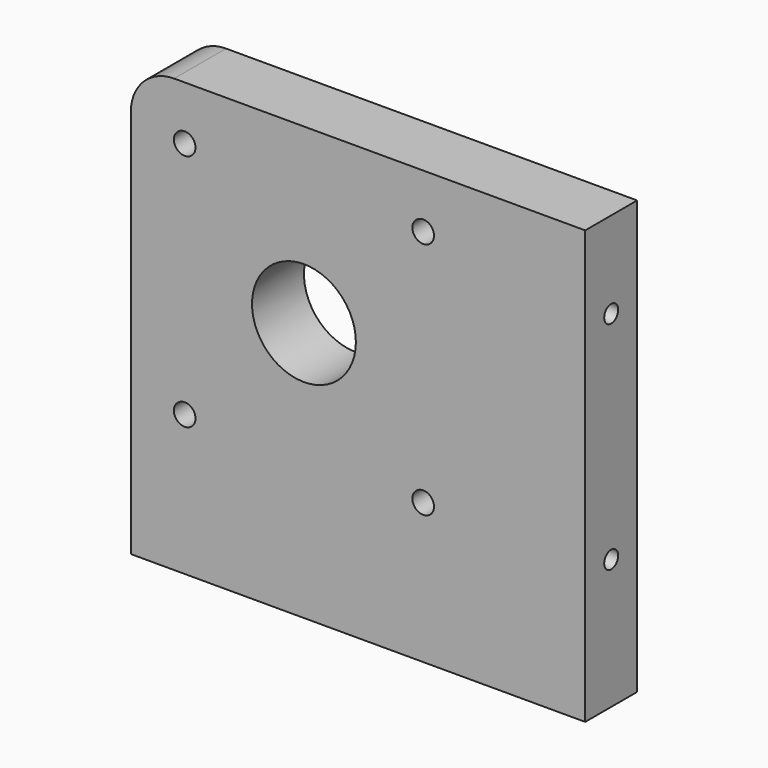
from build123d import *

# Parameters (mm, degrees)
F0_W           = 133.3499997854
F0_H           = 127
F0_R           = 3.175
F0_R_2         = 15.24
F1_DEPTH       = 19.05
F4_D           = 5.1054
F4_DEPTH       = 25.4
F4_TIP         = 1.5338169022
F4_ON_F3_D     = 5.1054
F4_ON_F3_DEPTH = 25.4
F4_ON_F3_TIP   = 1.5338169022
F7_R           = 12.7


with BuildPart() as f1:
    # F0 (on Front) → F1 (new body)
    with BuildSketch(Plane.XZ):
        with Locations((-66.6749998927, 63.5)):
            Rectangle(F0_W, F0_H)
        with Locations((-117.5500062, 41.1999938)):
            Circle(F0_R, mode=Mode.SUBTRACT)
        with Locations((-47.5499938, 41.1999938)):
            Circle(F0_R, mode=Mode.SUBTRACT)
        with Locations((-82.55, 76.2)):
            Circle(F0_R_2, mode=Mode.SUBTRACT)
        with Locations((-117.5500062, 111.2000062)):
            Circle(F0_R, mode=Mode.SUBTRACT)
        with Locations((-47.5499938, 111.2000062)):
            Circle(F0_R, mode=Mode.SUBTRACT)
    extrude(amount=F1_DEPTH)

    # F4
    with Locations(Plane.YZ):
        with Locations((-9.525, 101.6), (-9.525, 38.1)):
            Hole(F4_D / 2, depth=F4_DEPTH)
            with Locations((0, 0, -(F4_DEPTH + F4_TIP / 2))):  # 118° drill point
                Cone(0, F4_D / 2, F4_TIP, mode=Mode.SUBTRACT)

    # F4 on F3
    with Locations(Plane(origin=(0, 0, 0), x_dir=(1, 0, 0), z_dir=(0, 0, -1))):
        with Locations((-25.4, 9.525), (-88.9, 9.525)):
            Hole(F4_ON_F3_D / 2, depth=F4_ON_F3_DEPTH)
            with Locations((0, 0, -(F4_ON_F3_DEPTH + F4_ON_F3_TIP / 2))):  # 118° drill point
                Cone(0, F4_ON_F3_D / 2, F4_ON_F3_TIP, mode=Mode.SUBTRACT)


with BuildPart() as f5_1:
    # F5: instance of F1
    add(f1.part.mirror(Plane(origin=(-65.8295348944, -19.05, 62.823628006), x_dir=(1, 0, 0), z_dir=(0, -1, 0))))

    # F7
    f7_edges = [f5_1.edges().sort_by_distance(p)[0] for p in [
        (-133.35, -28.575, 127),
    ]]
    fillet(f7_edges, radius=F7_R)


solid = f5_1.part
